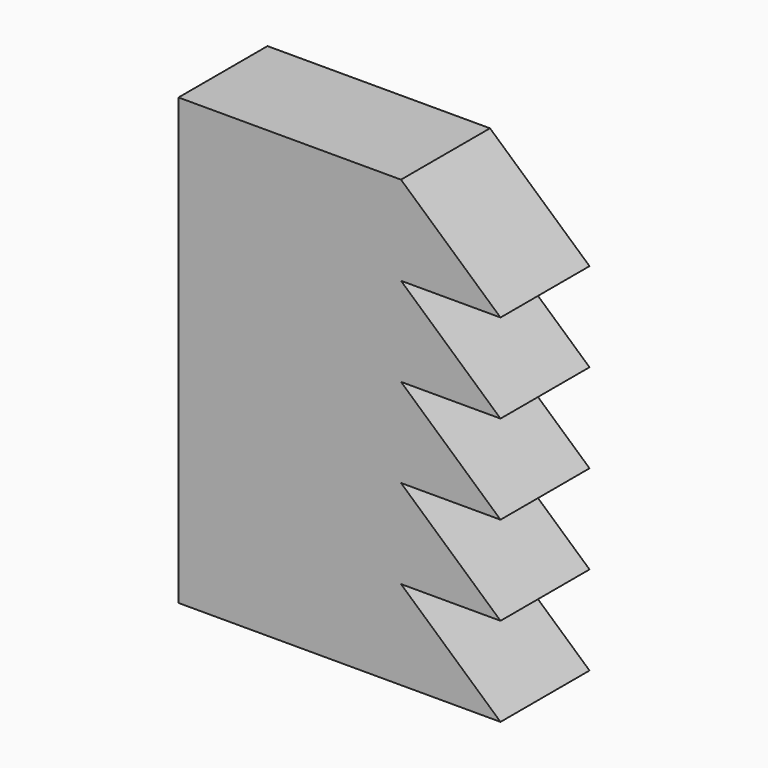
from build123d import *

# Parameters (mm, degrees)
F1_DEPTH = 12.7


with BuildPart() as f1:
    # F0 (on Front) → F1 (new body)
    with BuildSketch(Plane.XZ):
        Polygon((11.359225, 40.64), (0, 50.8), (0, 40.64), align=None)
        Polygon((0, 40.64), (0, 50.8), (-25.4, 50.8), (-25.4, 0), (0, 0), (0, 10.16), (0, 20.32), (0, 30.48), align=None)
        Polygon((11.359225, 30.48), (0, 40.64), (0, 30.48), align=None)
        Polygon((11.359225, 20.32), (0, 30.48), (0, 20.32), align=None)
        Polygon((11.359225, 10.16), (0, 20.32), (0, 10.16), align=None)
        Polygon((0, 10.16), (0, 0), (11.359225, 0), align=None)
    extrude(amount=F1_DEPTH)


solid = f1.part
